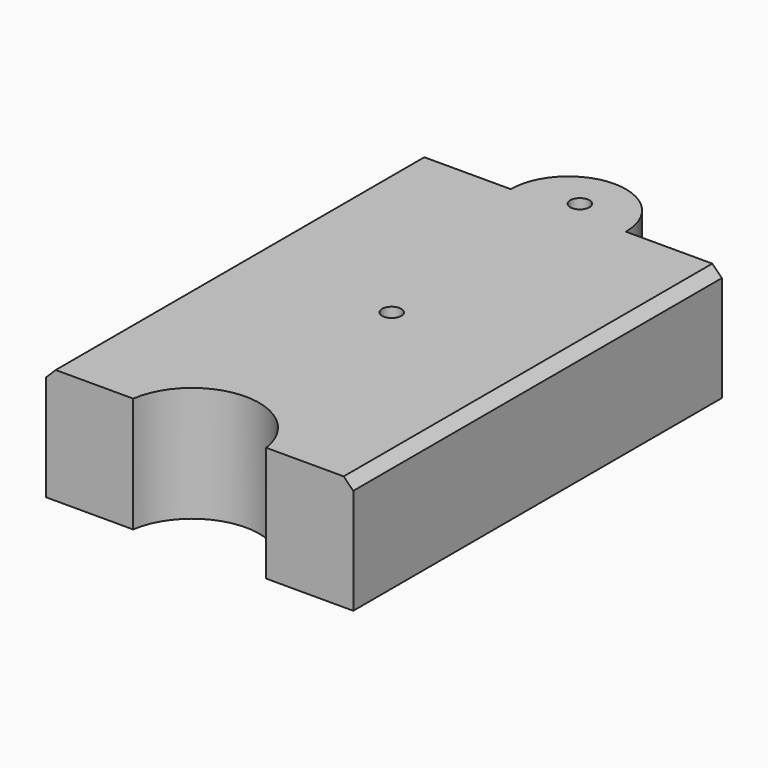
from build123d import *

# Parameters (mm, degrees)
F0_R     = 12.7
F1_DEPTH = 152.4
F3_DEPTH = 127
F4_R     = 25.4
F5_SIZE  = 12.7


with BuildPart() as f1:
    # F0 (on Top) → F1 (new body)
    with BuildSketch(Plane.XY):
        with BuildLine():
            Line((127, 609.6), (0, 609.6))
            Line((0, 609.6), (0, 0))
            Line((0, 0), (115.211819, 0))
            ThreePointArc((115.211819, 0), (203.2, 76.2), (291.188181, 0))
            Line((291.188181, 0), (406.4, 0))
            Line((406.4, 0), (406.4, 609.6))
            Line((406.4, 609.6), (279.4, 609.6))
            ThreePointArc((279.4, 609.6), (203.2, 685.8), (127, 609.6))
        make_face()
        with Locations((203.2, 317.5)):
            Circle(F0_R, mode=Mode.SUBTRACT)
        with Locations((203.2, 628.65)):
            Circle(F0_R, mode=Mode.SUBTRACT)
    extrude(amount=F1_DEPTH)

    # F2 (on face) → F3 (cut)
    with BuildSketch(Plane(origin=(0, 0, 0), x_dir=(1, 0, 0), z_dir=(0, 0, -1))):
        with BuildLine():
            ThreePointArc((76.2, -107.95), (58.239488, -115.389488), (50.8, -133.35))
            Line((50.8, -133.35), (50.8, -533.4))
            ThreePointArc((50.8, -533.4), (58.239488, -551.360512), (76.2, -558.8))
            Line((76.2, -558.8), (330.2, -558.8))
            ThreePointArc((330.2, -558.8), (348.160512, -551.360512), (355.6, -533.4))
            Line((355.6, -533.4), (355.6, -133.35))
            ThreePointArc((355.6, -133.35), (348.160512, -115.389488), (330.2, -107.95))
            Line((330.2, -107.95), (76.2, -107.95))
        make_face()
    extrude(amount=-F3_DEPTH, mode=Mode.SUBTRACT)

    # F4
    f4_edges = [f1.edges().sort_by_distance(p)[0] for p in [
        (50.8, 333.375, 127),
    ]]
    fillet(f4_edges, radius=F4_R)

    # F5
    f5_edges = [f1.edges().sort_by_distance(p)[0] for p in [
        (406.4, 304.8, 152.4),
        (0, 304.8, 152.4),
    ]]
    chamfer(f5_edges, length=F5_SIZE)


solid = f1.part
